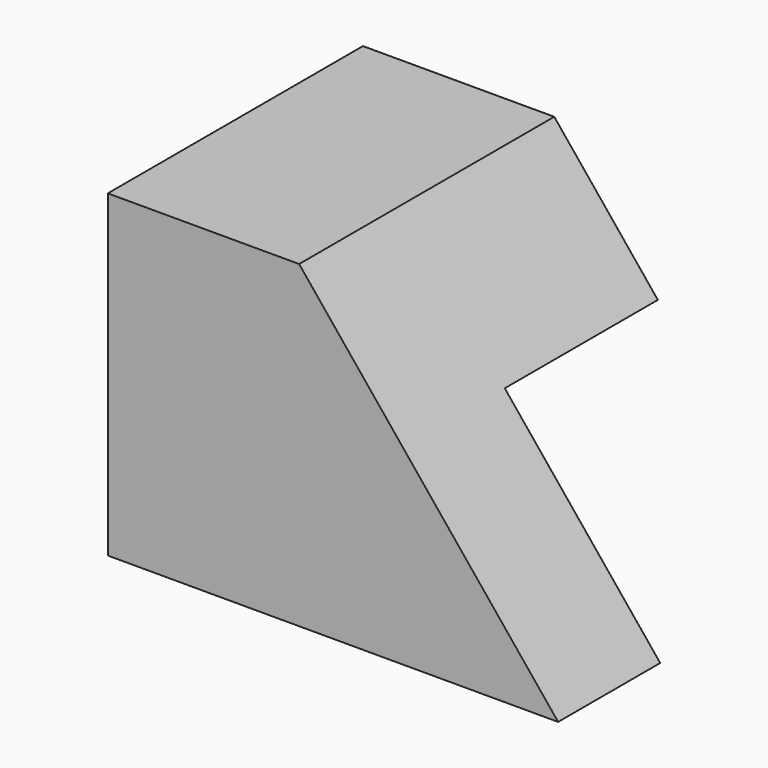
from build123d import *

# Parameters (mm, degrees)
F1_DEPTH = 31.75
F3_DEPTH = 31.75
F4_W     = 19.05
F4_H     = 19.05
F5_DEPTH = 50.8


with BuildPart() as f1:
    # F0 (on Front) → F1 (new body)
    with BuildSketch(Plane.XZ):
        Polygon((-70.190806, 44.267751), (-70.190806, 12.520112), (-25.353641, 12.520112), (-25.740806, 44.267751), align=None)
    extrude(amount=F1_DEPTH)

    # F2 (on face) → F3 (cut)
    with BuildSketch(Plane.XZ.offset(31.75)):
        Polygon((-25.740806, 44.267751), (-51.140806, 44.267751), (-25.353641, 12.520112), align=None)
    extrude(amount=-F3_DEPTH, mode=Mode.SUBTRACT)

    # F4 (on face) → F5 (cut)
    with BuildSketch(Plane(origin=(-70.190806, 0, 0), x_dir=(0, -1, 0), z_dir=(-1, 0, 0))):
        with Locations((9.525, 22.045112)):
            Rectangle(F4_W, F4_H)
    extrude(amount=-F5_DEPTH, mode=Mode.SUBTRACT)


solid = f1.part
